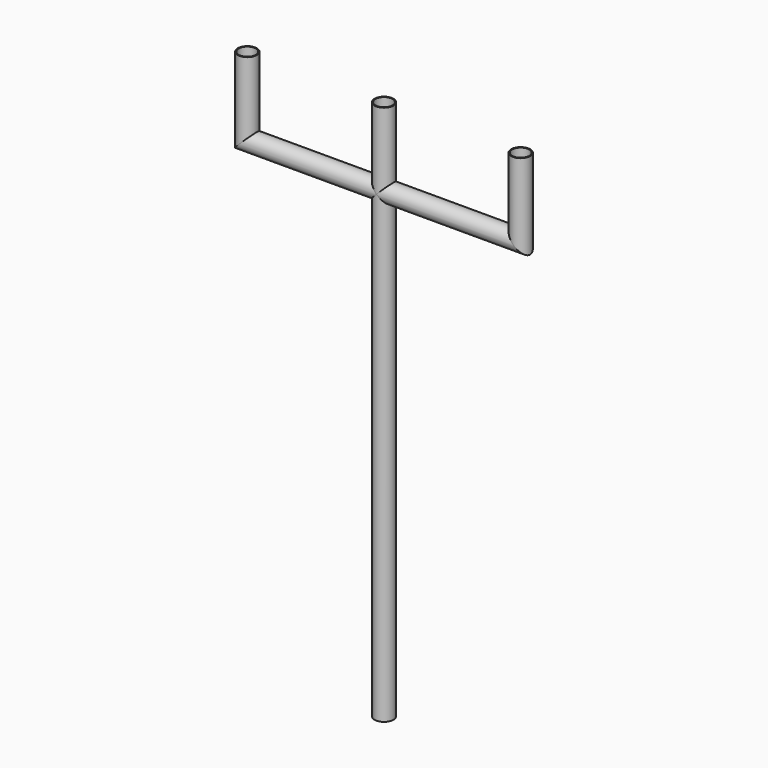
from build123d import *

# Parameters (mm, degrees)
F0_R     = 12.25
F0_R_2   = 11.0340300729
F1_DEPTH = 700
F3_R     = 12.25
F3_R_2   = 11.034


with BuildPart() as f1:
    # F0 (on Top) → F1 (new body)
    with BuildSketch(Plane.XY):
        Circle(F0_R)
        Circle(F0_R_2, mode=Mode.SUBTRACT)
    extrude(amount=F1_DEPTH)


with BuildPart() as f4:
    # F4: sweep along a path in F2
    with BuildLine(Plane.XZ) as f4_path:
        Line((177, 700.0073552132), (177, 600.0073552132))
        Line((177, 600.0073552132), (0, 600.0073552132))
        Line((0, 600.0073552132), (-177, 600.0073552132))
        Line((-177, 600.0073552132), (-177, 700.0073552132))
    # F3 (on Right) → F4 (sweep)
    with BuildSketch(Plane.YZ):
        with Locations((0, 600.0294685364)):
            Circle(F3_R)
        with Locations((0, 600.0294685364)):
            Circle(F3_R_2, mode=Mode.SUBTRACT)
    sweep(path=f4_path.line, transition=Transition.RIGHT)


solid = Compound([f1.part, f4.part])
